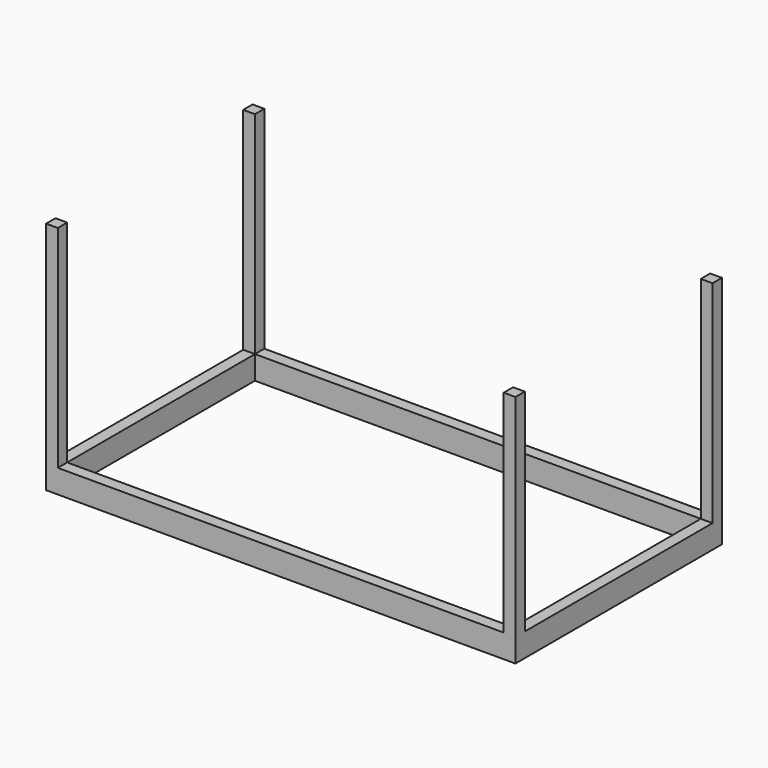
from build123d import *

# Parameters (mm, degrees)
F0_W     = 2000
F0_H     = 1100
F0_W_2   = 1900
F0_H_2   = 1000
F1_DEPTH = 100
F2_W     = 50
F2_H     = 50
F3_DEPTH = 900


with BuildPart() as f1:
    # F0 (on Top) → F1 (new body)
    with BuildSketch(Plane.XY):
        with Locations((-962.302912, 529.305752)):
            Rectangle(F0_W, F0_H)
        with Locations((-962.302912, 529.305752)):
            Rectangle(F0_W_2, F0_H_2, mode=Mode.SUBTRACT)
    extrude(amount=F1_DEPTH)

    # F2 (on face) → F3 (join)
    with BuildSketch(Plane.XY.offset(100)):
        with Locations((-1937.302912, 4.305752)):
            Rectangle(F2_W, F2_H)
        with Locations((12.697088, 4.305752)):
            Rectangle(F2_W, F2_H)
        with Locations((12.697088, 1054.305752)):
            Rectangle(F2_W, F2_H)
        with Locations((-1937.302912, 1054.305752)):
            Rectangle(F2_W, F2_H)
    extrude(amount=F3_DEPTH)


solid = f1.part
